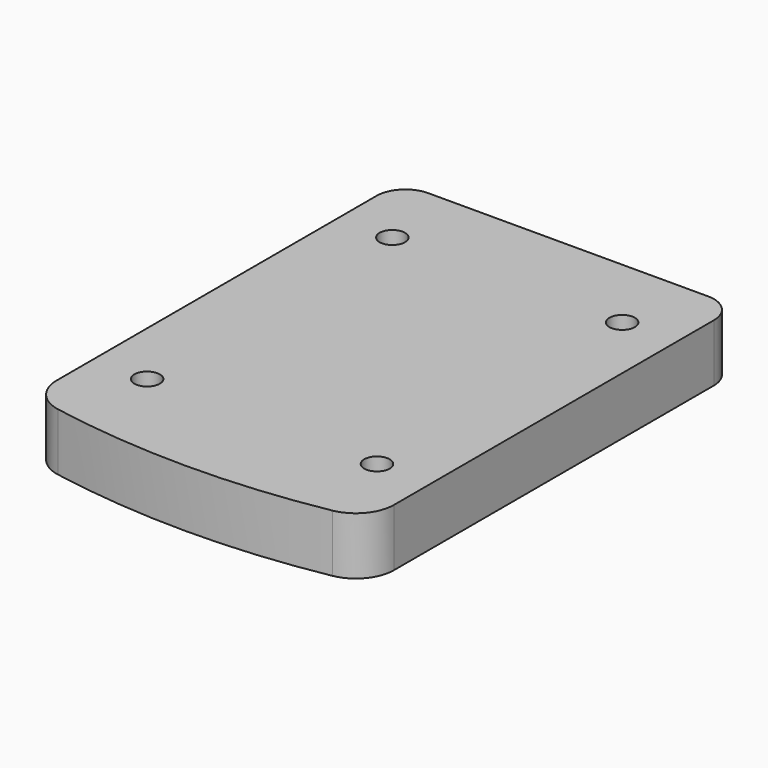
from build123d import *

# Parameters (mm, degrees)
F1_DEPTH       = 9.525
F2_D           = 4.2164
F2_CSINK_D     = 12.7
F2_CSINK_ANGLE = 82


with BuildPart() as f1:
    # F0 (on Top) → F1 (new body)
    with BuildSketch(Plane.XY):
        with BuildLine():
            ThreePointArc((27.94, 33.3552244306), (26.5438080546, 36.7241079744), (23.1738577086, 38.1177230378))
            Line((23.1738577086, 38.1177230378), (-23.1811422914, 38.082271391))
            ThreePointArc((-23.1811422914, 38.082271391), (-25.0025533258, 37.7187029501), (-26.5463835438, 36.6860808384))
            ThreePointArc((-26.5463835438, 36.6860808384), (-27.5778246543, 35.1414613375), (-27.94, 33.3197727838))
            Line((-27.94, 33.3197727838), (-27.94, -32.9312942685))
            ThreePointArc((-27.94, -32.9312942685), (-26.4637274976, -37.0018323507), (-22.721329046, -39.1797016327))
            ThreePointArc((-22.721329046, -39.1797016327), (0.0066230118, -41.2115138904), (22.731302533, -39.1434214242))
            ThreePointArc((22.731302533, -39.1434214242), (26.4669750401, -36.9634746567), (27.94, -32.8968280704))
            Line((27.94, -32.8968280704), (27.94, 33.3552244306))
        make_face()
    extrude(amount=F1_DEPTH)

    # F2 (through all)
    with Locations(Plane(origin=(0, 0, 0), x_dir=(1, 0, 0), z_dir=(0, 0, -1))):
        with Locations((-19.05, -25.4634809959), (19.05, -25.4634809959), (-19.05, 25.3365190041), (19.05, 25.3365190041)):
            CounterSinkHole(F2_D / 2, F2_CSINK_D / 2, counter_sink_angle=F2_CSINK_ANGLE)


solid = f1.part
